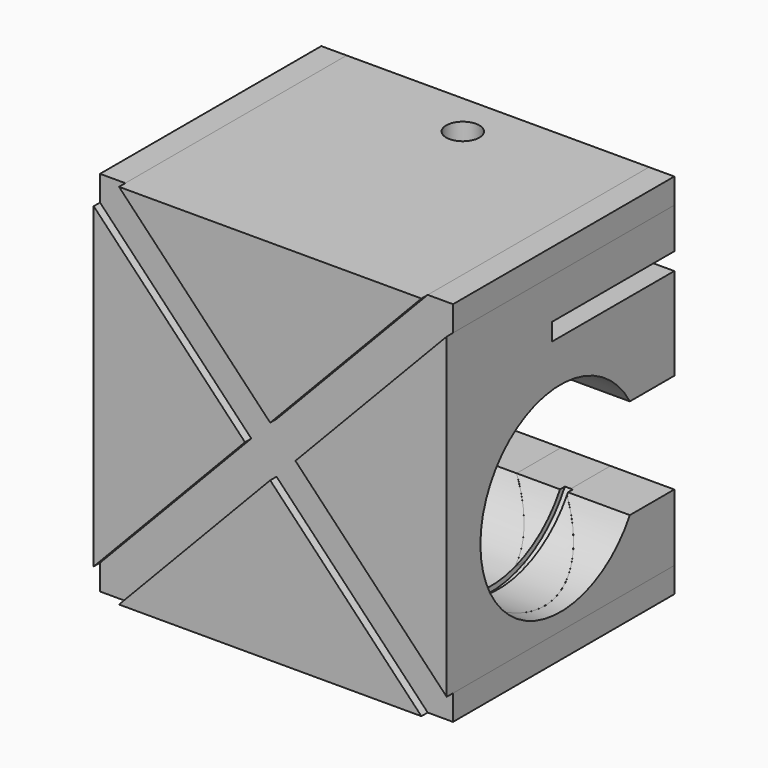
from build123d import *

# Parameters (mm, degrees)
F1_DEPTH  = 54
F2_DEPTH  = 52.5
F4_W      = 29
F4_H      = 3.3
F5_DEPTH  = 67
F7_R      = 3.15
F8_DEPTH  = 12.5
F10_R     = 20
F11_DEPTH = 0.75
F13_R     = 20
F14_DEPTH = 0.75


with BuildPart() as f1:
    # F0 (on Front) → F1 (new body)
    with BuildSketch(Plane.XZ):
        Polygon((-4.7893472947, 0), (-33.5, 30.1), (-33.5, -30.1), align=None)
    extrude(amount=F1_DEPTH)


with BuildPart() as f1b:
    # F0 (on Front) → F1, piece 2 (new body)
    with BuildSketch(Plane.XZ):
        Polygon((0, 4.8111682041), (28.7, 34.9), (-28.7, 34.9), align=None)
    extrude(amount=F1_DEPTH)


with BuildPart() as f1c:
    # F0 (on Front) → F1, piece 3 (new body)
    with BuildSketch(Plane.XZ):
        Polygon((33.5, -30.1), (33.5, 30.1), (4.7893472947, 0), align=None)
    extrude(amount=F1_DEPTH)


with BuildPart() as f1d:
    # F0 (on Front) → F1, piece 4 (new body)
    with BuildSketch(Plane.XZ):
        Polygon((-28.7, -34.9), (28.7, -34.9), (0, -4.8111682041), align=None)
    extrude(amount=F1_DEPTH)


with BuildPart() as f2:
    # F0 (on Front) → F2 (new body)
    with BuildSketch(Plane.XZ):
        Polygon((33.5, 30.1), (33.5, 34.9), (28.7, 34.9), (0, 4.8111682041), (-28.7, 34.9), (-33.5, 34.9), (-33.5, 30.1), (-4.7893472947, 0), (-33.5, -30.1), (-33.5, -34.9), (-28.7, -34.9), (0, -4.8111682041), (28.7, -34.9), (33.5, -34.9), (33.5, -30.1), (4.7893472947, 0), align=None)
    extrude(amount=F2_DEPTH)


with BuildPart() as f5_tool:
    # F4 (on offset) → F5 (new body)
    with BuildSketch(Plane.YZ.offset(33.5)):
        with Locations((-14.5, 20.75)):
            Rectangle(F4_W, F4_H)
        with BuildLine():
            ThreePointArc((-10.5455173281, -17.4), (-8.6474093005, -12.8175618569), (-8, -7.9))
            ThreePointArc((-8, -7.9), (-8.6474093005, -2.9824381431), (-10.5455173281, 1.6))
            ThreePointArc((-10.5455173281, 1.6), (-46, -7.9), (-10.5455173281, -17.4))
        make_face()
        with BuildLine():
            ThreePointArc((-10.5455173281, 1.6), (-8.6474093005, -2.9824381431), (-8, -7.9))
            ThreePointArc((-8, -7.9), (-8.6474093005, -12.8175618569), (-10.5455173281, -17.4))
            Line((-10.5455173281, -17.4), (0, -17.4))
            Line((0, -17.4), (0, 1.6))
            Line((0, 1.6), (-10.5455173281, 1.6))
        make_face()
    extrude(amount=-F5_DEPTH)


with BuildPart() as f1_1:
    add(f1.part)

    # F5: cut by f5_tool
    add(f5_tool.part, mode=Mode.SUBTRACT)


with BuildPart() as f1b_1:
    add(f1b.part)

    # F5: cut by f5_tool
    add(f5_tool.part, mode=Mode.SUBTRACT)

    # F7 (on offset) → F8 (cut)
    with BuildSketch(Plane.XY.offset(34.9)):
        with Locations((0, -8.3)):
            Circle(F7_R)
    extrude(amount=-F8_DEPTH, mode=Mode.SUBTRACT)


with BuildPart() as f1c_1:
    add(f1c.part)

    # F5: cut by f5_tool
    add(f5_tool.part, mode=Mode.SUBTRACT)


with BuildPart() as f1d_1:
    add(f1d.part)

    # F5: cut by f5_tool
    add(f5_tool.part, mode=Mode.SUBTRACT)


with BuildPart() as f2_1:
    add(f2.part)

    # F5: cut by f5_tool
    add(f5_tool.part, mode=Mode.SUBTRACT)


with BuildPart() as f11_tool:
    # F10 (on offset) → F11 (new body, symmetric)
    with BuildSketch(Plane.YZ.offset(21)):
        with Locations((-27, -7.9)):
            Circle(F10_R)
    extrude(amount=F11_DEPTH, both=True)


with BuildPart() as f1c_2:
    add(f1c_1.part)

    # F11: cut by f11_tool
    add(f11_tool.part, mode=Mode.SUBTRACT)


with BuildPart() as f1d_2:
    add(f1d_1.part)

    # F11: cut by f11_tool
    add(f11_tool.part, mode=Mode.SUBTRACT)


with BuildPart() as f2_2:
    add(f2_1.part)

    # F11: cut by f11_tool
    add(f11_tool.part, mode=Mode.SUBTRACT)


with BuildPart() as f14_tool:
    # F13 (on offset) → F14 (new body, symmetric)
    with BuildSketch(Plane(origin=(-21, 0, 0), x_dir=(0, -1, 0), z_dir=(-1, 0, 0))):
        with Locations((27, -7.9)):
            Circle(F13_R)
    extrude(amount=F14_DEPTH, both=True)


with BuildPart() as f1_2:
    add(f1_1.part)

    # F14: cut by f14_tool
    add(f14_tool.part, mode=Mode.SUBTRACT)


with BuildPart() as f1d_3:
    add(f1d_2.part)

    # F14: cut by f14_tool
    add(f14_tool.part, mode=Mode.SUBTRACT)


with BuildPart() as f2_3:
    add(f2_2.part)

    # F14: cut by f14_tool
    add(f14_tool.part, mode=Mode.SUBTRACT)


solid = Compound([f1b_1.part, f1c_2.part, f1_2.part, f1d_3.part, f2_3.part])
